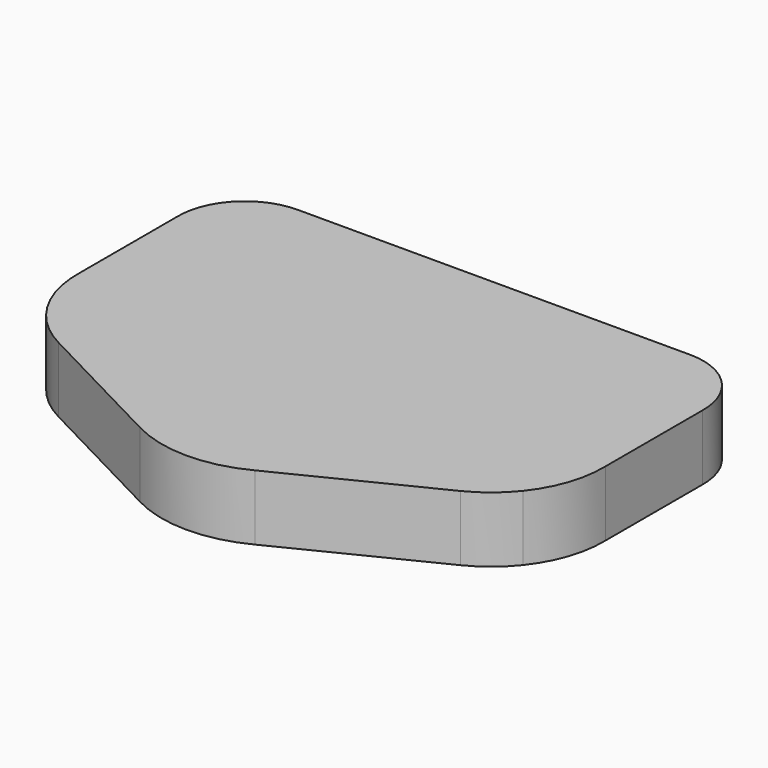
from build123d import *

# Parameters (mm, degrees)
F1_DEPTH = 10


with BuildPart() as f1:
    # F0 (on Top) → F1 (new body)
    with BuildSketch(Plane.XY):
        with BuildLine():
            ThreePointArc((30.817915, -24.677541), (33.970334, -22.656434), (36.609648, -20))
            Line((36.609648, -20), (-36.38485, -20))
            ThreePointArc((-36.38485, -20), (-33.824936, -22.641711), (-30.761083, -24.677541))
            Line((-30.761083, -24.677541), (-9.392572, -35.779318))
            ThreePointArc((-9.392572, -35.779318), (-0.565008, -37.997021), (8.283882, -35.866005))
            Line((8.283882, -35.866005), (30.817915, -24.677541))
        make_face()
        with BuildLine():
            Line((-36.38485, -20), (36.609648, -20))
            ThreePointArc((36.609648, -20), (39.452618, -14.784339), (40.348341, -8.912091))
            Line((40.348341, -8.912091), (40.348341, 9.63461))
            ThreePointArc((40.348341, 9.63461), (37.446875, 16.951218), (30.190417, 20))
            Line((30.190417, 20), (-29.849629, 20))
            ThreePointArc((-29.849629, 20), (-37.106087, 16.951218), (-40.007552, 9.63461))
            Line((-40.007552, 9.63461), (-40.007552, -8.912091))
            ThreePointArc((-40.007552, -8.912091), (-39.166591, -14.773097), (-36.38485, -20))
        make_face()
    extrude(amount=F1_DEPTH)


solid = f1.part
